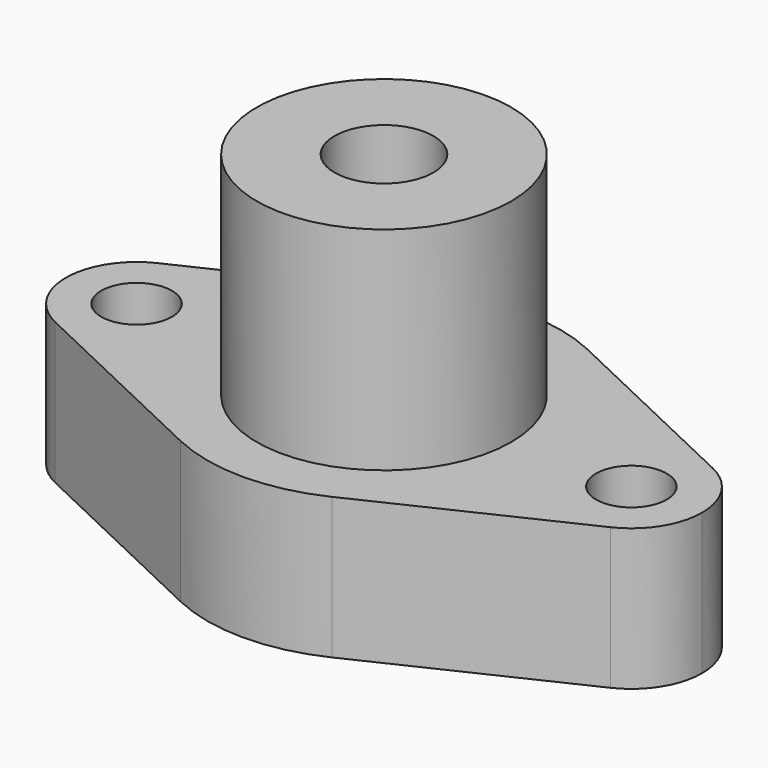
from build123d import *

# Parameters (mm, degrees)
F1_DEPTH = 20
F3_D     = 10
F4_R     = 18
F5_DEPTH = 30
F7_D     = 14
F7_DEPTH = 18
F7_TIP   = 4.2060243332


with BuildPart() as f1:
    # F0 (on Top) → F1 (new body)
    with BuildSketch(Plane.XY):
        with BuildLine():
            ThreePointArc((39.2857142857, -9.0350790291), (29.6547751618, -8.4515425473), (25, 0))
            ThreePointArc((25, 0), (21.1288563682, -13.3630620956), (10.7142857143, -22.5876975726))
            Line((10.7142857143, -22.5876975726), (39.2857142857, -9.0350790291))
        make_face()
        with BuildLine():
            ThreePointArc((10.7142857143, 22.5876975726), (21.1288563682, 13.3630620956), (25, 0))
            ThreePointArc((25, 0), (29.6547751618, 8.4515425473), (39.2857142857, 9.0350790291))
            Line((39.2857142857, 9.0350790291), (10.7142857143, 22.5876975726))
        make_face()
        with BuildLine():
            ThreePointArc((-25, 0), (-21.1288563682, 13.3630620956), (-10.7142857143, 22.5876975726))
            Line((-10.7142857143, 22.5876975726), (-39.2857142857, 9.0350790291))
            ThreePointArc((-39.2857142857, 9.0350790291), (-29.6547751618, 8.4515425473), (-25, 0))
        make_face()
        with BuildLine():
            Line((-39.2857142857, -9.0350790291), (-10.7142857143, -22.5876975726))
            ThreePointArc((-10.7142857143, -22.5876975726), (-21.1288563682, -13.3630620956), (-25, 0))
            ThreePointArc((-25, 0), (-29.6547751618, -8.4515425473), (-39.2857142857, -9.0350790291))
        make_face()
        with BuildLine():
            ThreePointArc((-39.2857142857, -9.0350790291), (-29.6547751618, -8.4515425473), (-25, 0))
            ThreePointArc((-25, 0), (-29.6547751618, 8.4515425473), (-39.2857142857, 9.0350790291))
            ThreePointArc((-39.2857142857, 9.0350790291), (-45, 0), (-39.2857142857, -9.0350790291))
        make_face()
        with BuildLine():
            ThreePointArc((39.2857142857, 9.0350790291), (29.6547751618, 8.4515425473), (25, 0))
            ThreePointArc((25, 0), (29.6547751618, -8.4515425473), (39.2857142857, -9.0350790291))
            ThreePointArc((39.2857142857, -9.0350790291), (43.4515425473, -5.3452248382), (45, 0))
            ThreePointArc((45, 0), (43.4515425473, 5.3452248382), (39.2857142857, 9.0350790291))
        make_face()
        with BuildLine():
            ThreePointArc((10.7142857143, -22.5876975726), (21.1288563682, -13.3630620956), (25, 0))
            ThreePointArc((25, 0), (21.1288563682, 13.3630620956), (10.7142857143, 22.5876975726))
            ThreePointArc((10.7142857143, 22.5876975726), (0, 25), (-10.7142857143, 22.5876975726))
            ThreePointArc((-10.7142857143, 22.5876975726), (-21.1288563682, 13.3630620956), (-25, 0))
            ThreePointArc((-25, 0), (-21.1288563682, -13.3630620956), (-10.7142857143, -22.5876975726))
            ThreePointArc((-10.7142857143, -22.5876975726), (0, -25), (10.7142857143, -22.5876975726))
        make_face()
    extrude(amount=F1_DEPTH)

    # F3 (through all)
    with Locations(Plane(origin=(0, 0, 0), x_dir=(1, 0, 0), z_dir=(0, 0, -1))):
        with Locations((-35, 0), (35, 0)):
            Hole(F3_D / 2)

    # F4 (on face) → F5 (join)
    with BuildSketch(Plane.XY.offset(20)):
        Circle(F4_R)
    extrude(amount=F5_DEPTH)

    # F7
    with Locations(Plane.XY.offset(50)):
        with Locations((0, 0)):
            Hole(F7_D / 2, depth=F7_DEPTH)
            with Locations((0, 0, -(F7_DEPTH + F7_TIP / 2))):  # 118° drill point
                Cone(0, F7_D / 2, F7_TIP, mode=Mode.SUBTRACT)


solid = f1.part
